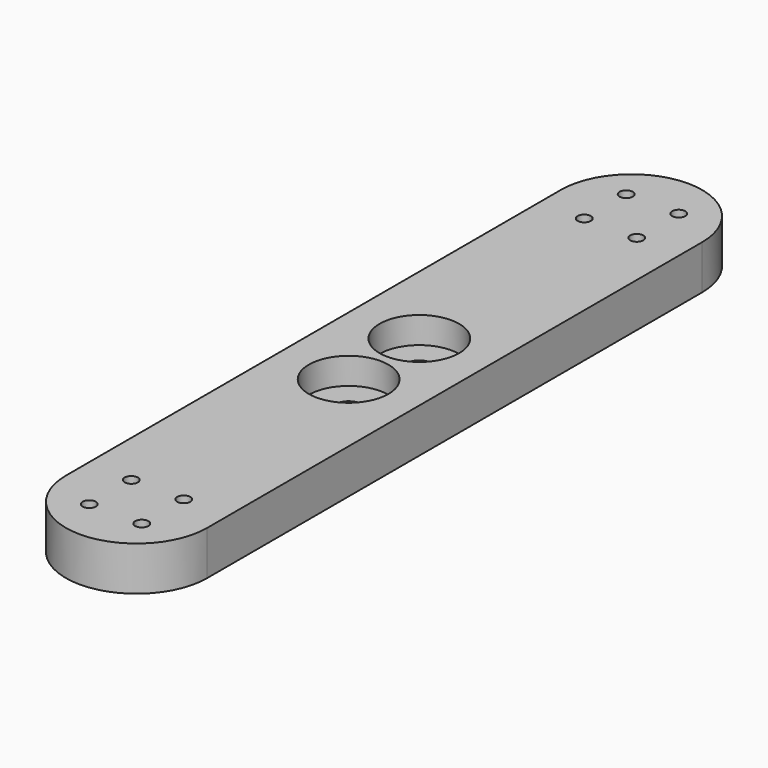
from build123d import *

# Parameters (mm, degrees)
F0_R     = 0.75
F1_DEPTH = 5
F2_R     = 1.575
F3_DEPTH = 5.001
F4_R     = 4.5
F5_DEPTH = 3
F6_R     = 2
F7_DEPTH = 2


with BuildPart() as f1:
    # F0 (on Top) → F1 (new body)
    with BuildSketch(Plane.XY):
        with BuildLine():
            Line((-8, 35), (-8, 0))
            Line((-8, 0), (-8, -35))
            ThreePointArc((-8, -35), (0, -43), (8, -35))
            Line((8, -35), (8, 0))
            Line((8, 0), (8, 35))
            ThreePointArc((8, 35), (0, 43), (-8, 35))
        make_face()
        with Locations((-2.969848, -37.969848)):
            Circle(F0_R, mode=Mode.SUBTRACT)
        with Locations((-2.969848, -32.030152)):
            Circle(F0_R, mode=Mode.SUBTRACT)
        with Locations((2.969848, -37.969848)):
            Circle(F0_R, mode=Mode.SUBTRACT)
        with Locations((2.969848, -32.030152)):
            Circle(F0_R, mode=Mode.SUBTRACT)
        with Locations((-2.969848, 32.030152)):
            Circle(F0_R, mode=Mode.SUBTRACT)
        with Locations((-2.969848, 37.969848)):
            Circle(F0_R, mode=Mode.SUBTRACT)
        with Locations((2.969848, 32.030152)):
            Circle(F0_R, mode=Mode.SUBTRACT)
        with Locations((2.969848, 37.969848)):
            Circle(F0_R, mode=Mode.SUBTRACT)
    extrude(amount=F1_DEPTH)

    # F2 (on face) → F3 (cut, through all)
    with BuildSketch(Plane.XY.offset(5)):
        with Locations((0, 5)):
            Circle(F2_R)
        with Locations((0, -5)):
            Circle(F2_R)
    extrude(amount=-F3_DEPTH, mode=Mode.SUBTRACT)

    # F4 (on face) → F5 (cut)
    with BuildSketch(Plane.XY.offset(5)):
        with Locations((0, 5)):
            Circle(F4_R)
        with Locations((0, -5)):
            Circle(F4_R)
    extrude(amount=-F5_DEPTH, mode=Mode.SUBTRACT)

    # F6 (on face) → F7 (cut)
    with BuildSketch(Plane(origin=(0, 0, 0), x_dir=(1, 0, 0), z_dir=(0, 0, -1))):
        with Locations((-2.969848, 37.969848)):
            Circle(F6_R)
        with Locations((2.969848, 37.969848)):
            Circle(F6_R)
        with Locations((2.969848, 32.030152)):
            Circle(F6_R)
        with Locations((-2.969848, 32.030152)):
            Circle(F6_R)
        with Locations((-2.969848, -32.030152)):
            Circle(F6_R)
        with Locations((-2.969848, -37.969848)):
            Circle(F6_R)
        with Locations((2.969848, -37.969848)):
            Circle(F6_R)
        with Locations((2.969848, -32.030152)):
            Circle(F6_R)
    extrude(amount=-F7_DEPTH, mode=Mode.SUBTRACT)


solid = f1.part
